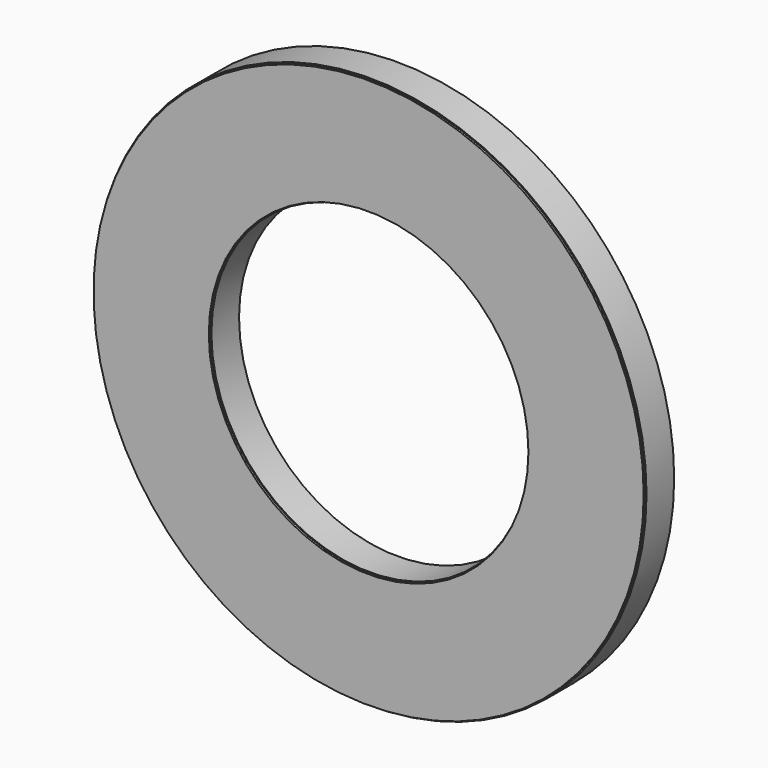
from build123d import *

# Parameters (mm, degrees)
F0_R     = 140
F0_R_2   = 115
F1_DEPTH = 25
F0_R_3   = 200
F0_R_4   = 175
F2_R     = 199.1139106773
F2_R_2   = 140
F2_R_3   = 115.6873581899
F3_DEPTH = 1.5
F5_W     = 24.4335234165
F5_H     = 64.2214417458
F6_DEPTH = 25.0000003725
F8_COUNT = 8


with BuildPart() as f1:
    # F0 (on Front) → F1 (new body)
    with BuildSketch(Plane.XZ):
        Circle(F0_R)
        Circle(F0_R_2, mode=Mode.SUBTRACT)
    extrude(amount=F1_DEPTH)


with BuildPart() as f1b:
    # F0 (on Front) → F1, piece 2 (new body)
    with BuildSketch(Plane.XZ):
        Circle(F0_R_3)
        Circle(F0_R_4, mode=Mode.SUBTRACT)
    extrude(amount=F1_DEPTH)


with BuildPart() as f3:
    # F2 (on face) → F3 (new body)
    with BuildSketch(Plane.XZ.offset(25)):
        Circle(F2_R)
        Circle(F2_R_2, mode=Mode.SUBTRACT)
        Circle(F2_R_2)
        Circle(F2_R_3, mode=Mode.SUBTRACT)
    extrude(amount=F3_DEPTH)


with BuildPart() as f6:
    # F5 (on face) → F6 (new body)
    with BuildSketch(Plane(origin=(0, 0, 0), x_dir=(-1, 0, 0), z_dir=(0, 1, 0))):
        with Locations((0.053063035, 155.6009352207)):
            Rectangle(F5_W, F5_H)
    extrude(amount=-F6_DEPTH)


with BuildPart() as f8_1:
    # F8: instance of F6
    add(f6.part.rotate(Axis((0, -1.6998201609, 0), (0, 1, 0)), 1 * 360 / F8_COUNT))


with BuildPart() as f8_2:
    # F8: instance of F6
    add(f6.part.rotate(Axis((0, -1.6998201609, 0), (0, 1, 0)), 2 * 360 / F8_COUNT))


with BuildPart() as f8_3:
    # F8: instance of F6
    add(f6.part.rotate(Axis((0, -1.6998201609, 0), (0, 1, 0)), 3 * 360 / F8_COUNT))


with BuildPart() as f8_4:
    # F8: instance of F6
    add(f6.part.rotate(Axis((0, -1.6998201609, 0), (0, 1, 0)), 4 * 360 / F8_COUNT))


with BuildPart() as f8_5:
    # F8: instance of F6
    add(f6.part.rotate(Axis((0, -1.6998201609, 0), (0, 1, 0)), 5 * 360 / F8_COUNT))


with BuildPart() as f8_6:
    # F8: instance of F6
    add(f6.part.rotate(Axis((0, -1.6998201609, 0), (0, 1, 0)), 6 * 360 / F8_COUNT))


with BuildPart() as f8_7:
    # F8: instance of F6
    add(f6.part.rotate(Axis((0, -1.6998201609, 0), (0, 1, 0)), 7 * 360 / F8_COUNT))


solid = Compound([f1.part, f1b.part, f3.part, f6.part, f8_1.part, f8_2.part, f8_3.part, f8_4.part, f8_5.part, f8_6.part, f8_7.part])
